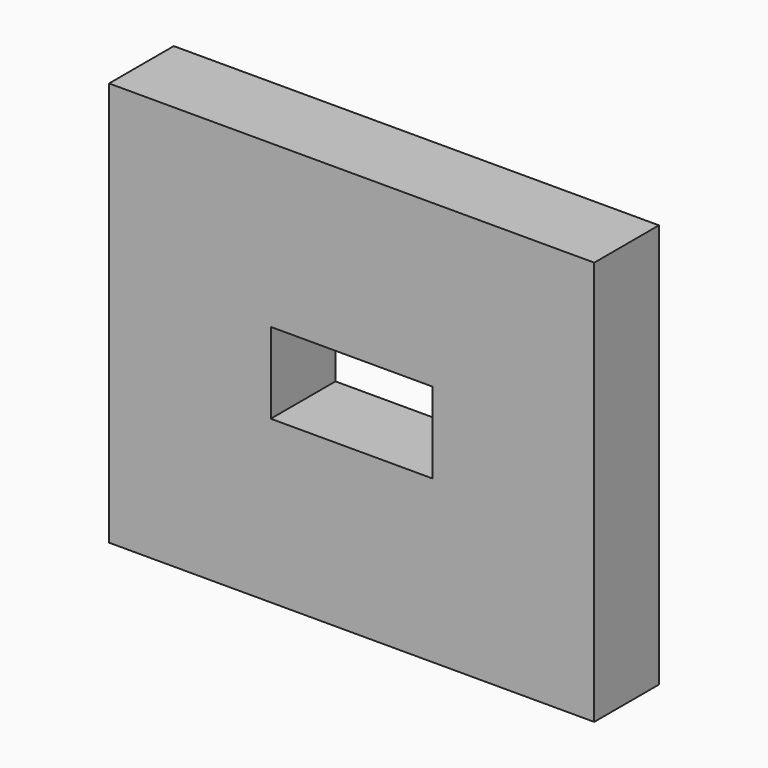
from build123d import *

# Parameters (mm, degrees)
BOX013_W     = 4
BOX013_H     = 2
BOX013_DEPTH = 2
BOX012_W     = 12
BOX012_H     = 2
BOX012_DEPTH = 10


with BuildPart() as cube011:
    # Box013 → Box013 (new body)
    with BuildSketch(Plane(origin=(4, 0, 30), x_dir=(1, 0, 0), z_dir=(0, 0, 1))):
        with Locations((2, 1)):
            Rectangle(BOX013_W, BOX013_H)
    extrude(amount=BOX013_DEPTH)


with BuildPart() as obj1:
    # Box012 → Box012 (new body)
    with BuildSketch(Plane.XY.offset(26)):
        with Locations((6, 1)):
            Rectangle(BOX012_W, BOX012_H)
    extrude(amount=BOX012_DEPTH)

    # Cut005: cut Cube011
    add(cube011.part, mode=Mode.SUBTRACT)


with BuildPart() as obj1_1:
    # Cut005 placement: moved
    add(obj1.part.moved(Location((-106, 28, -2))))


solid = obj1_1.part
